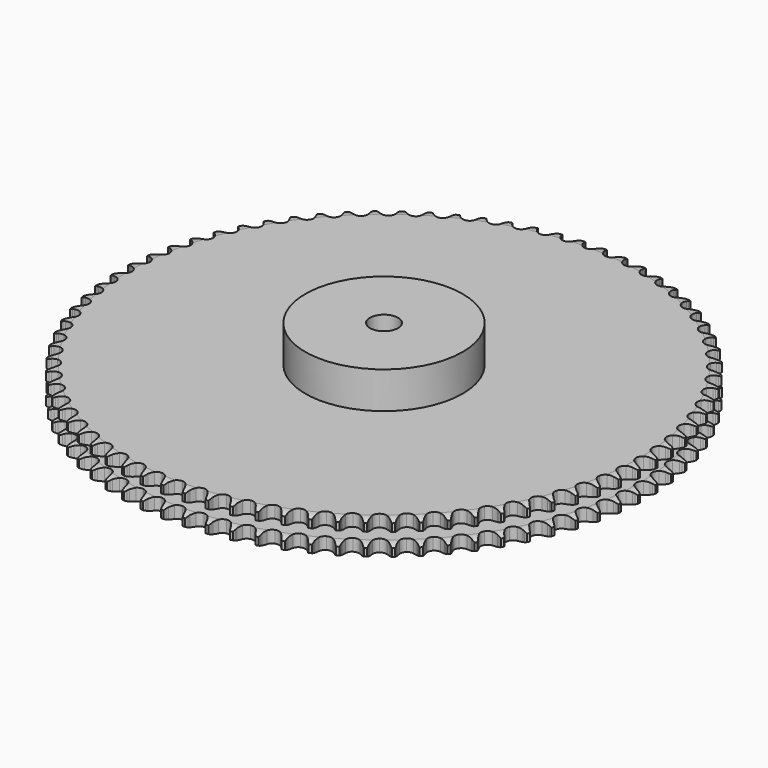
from build123d import *

# Parameters (mm, degrees)
PAD_DEPTH         = 30.3
SKETCH001_R       = 70
PAD001_DEPTH      = 63
SKETCH002_R       = 12.5
POCKET_DEPTH      = 0.001
POCKET_DEPTH_BACK = 63.001


with BuildPart() as part:
    # Sprocket → Pad (new body)
    with BuildSketch(Plane.XY):
        with BuildLine():
            ThreePointArc((-9.776845, 236.382307), (-8.548277, 234.737815), (-7.693596, 232.871467))
            Line((-7.693596, 232.871467), (-7.109925, 231.129719))
            ThreePointArc((-7.109925, 231.129719), (-6.189177, 228.943845), (-4.950801, 226.920914))
            ThreePointArc((-4.950801, 226.920914), (-2.780815, 225.057204), (0, 224.386887))
            ThreePointArc((0, 224.386887), (2.780815, 225.057204), (4.950801, 226.920914))
            ThreePointArc((4.950801, 226.920914), (6.189177, 228.943845), (7.109925, 231.129719))
            Line((7.109925, 231.129719), (7.693596, 232.871467))
            ThreePointArc((7.693596, 232.871467), (8.548277, 234.737815), (9.776845, 236.382307))
            ThreePointArc((9.776845, 236.382307), (10.865415, 234.641977), (11.563055, 232.711425))
            Line((11.563055, 232.711425), (12.0009, 230.927427))
            ThreePointArc((12.0009, 230.927427), (12.737995, 228.672984), (13.805089, 226.554698))
            ThreePointArc((13.805089, 226.554698), (15.81376, 224.518157), (18.529722, 223.620492))
            ThreePointArc((18.529722, 223.620492), (21.356394, 224.058881), (23.672872, 225.73703))
            Line((23.672872, 225.73703), (26.172182, 229.753161))
            ThreePointArc((26.172182, 229.753161), (26.510327, 230.607541), (26.897691, 231.440761))
            ThreePointArc((26.897691, 231.440761), (27.903576, 233.230155), (29.263748, 234.767576))
            ThreePointArc((29.263748, 234.767576), (30.204885, 232.943297), (30.740719, 230.961728))
            Line((30.740719, 230.961728), (31.029746, 229.147666))
            ThreePointArc((31.029746, 229.147666), (31.578153, 226.840054), (32.466676, 224.640883))
            ThreePointArc((32.466676, 224.640883), (34.30031, 222.445424), (36.932868, 221.326542))
            ThreePointArc((36.932868, 221.326542), (39.786086, 221.53001), (42.233234, 223.011133))
            Line((42.233234, 223.011133), (45.055656, 226.807156))
            ThreePointArc((45.055656, 226.807156), (45.463201, 227.630694), (45.918049, 228.42908))
            ThreePointArc((45.918049, 228.42908), (47.068264, 230.129297), (48.55075, 231.549145))
            ThreePointArc((48.55075, 231.549145), (49.338025, 229.653378), (49.708392, 227.634328))
            Line((49.708392, 227.634328), (49.846628, 225.802595))
            ThreePointArc((49.846628, 225.802595), (50.202601, 223.457577), (50.906483, 221.192544))
            ThreePointArc((50.906483, 221.192544), (52.552555, 218.853163), (55.083724, 217.520708))
            ThreePointArc((55.083724, 217.520708), (57.944, 217.487863), (60.505099, 218.761844))
            Line((60.505099, 218.761844), (63.631355, 222.311828))
            ThreePointArc((63.631355, 222.311828), (64.105514, 223.098898), (64.624739, 223.856996))
            ThreePointArc((64.624739, 223.856996), (65.911429, 225.456422), (67.506101, 226.748998))
            ThreePointArc((67.506101, 226.748998), (68.134136, 224.794693), (68.336506, 222.751955))
            Line((68.336506, 222.751955), (68.323007, 220.915062))
            ThreePointArc((68.323007, 220.915062), (68.484114, 218.548658), (68.998547, 216.233235))
            ThreePointArc((68.998547, 216.233235), (70.445812, 213.765913), (72.858303, 212.228986))
            ThreePointArc((72.858303, 212.228986), (75.706097, 211.960054), (78.363654, 213.01819))
            Line((78.363654, 213.01819), (81.772387, 216.297885))
            ThreePointArc((81.772387, 216.297885), (82.309923, 217.043111), (82.889977, 217.755742))
            ThreePointArc((82.889977, 217.755742), (84.304352, 219.243451), (86.000318, 220.399925))
            ThreePointArc((86.000318, 220.399925), (86.464822, 218.400433), (86.497813, 216.34796))
            Line((86.497813, 216.34796), (86.332671, 214.518456))
            ThreePointArc((86.332671, 214.518456), (86.297811, 212.14683), (86.619281, 209.796834))
            ThreePointArc((86.619281, 209.796834), (87.857853, 207.218425), (90.135186, 205.487526))
            ThreePointArc((90.135186, 205.487526), (92.951045, 204.984343), (95.686905, 205.819406))
            Line((95.686905, 205.819406), (99.354831, 208.806407))
            ThreePointArc((99.354831, 208.806407), (99.95207, 209.504699), (100.588993, 210.166996))
            ThreePointArc((100.588993, 210.166996), (102.12139, 211.532826), (103.907065, 212.545298))
            ThreePointArc((103.907065, 212.545298), (104.204866, 210.514277), (104.068252, 208.46609))
            Line((104.068252, 208.46609), (103.752595, 206.656472))
            ThreePointArc((103.752595, 206.656472), (103.522007, 204.295825), (103.648317, 201.927308))
            ThreePointArc((103.648317, 201.927308), (104.669736, 199.255425), (106.796354, 197.342377))
            ThreePointArc((106.796354, 197.342377), (109.561043, 196.608382), (112.356517, 197.214666))
            Line((112.356517, 197.214666), (116.25858, 199.888571))
            ThreePointArc((116.25858, 199.888571), (116.911444, 200.535158), (117.600883, 201.142596))
            ThreePointArc((117.600883, 201.142596), (119.240836, 202.377216), (121.104021, 203.23877))
            ThreePointArc((121.104021, 203.23877), (121.233084, 201.190094), (120.9278, 199.160184))
            Line((120.9278, 199.160184), (120.463783, 197.382814))
            ThreePointArc((120.463783, 197.382814), (120.039042, 195.049271), (119.969331, 192.678414))
            ThreePointArc((119.969331, 192.678414), (120.766618, 189.931308), (122.727994, 187.84918))
            ThreePointArc((122.727994, 187.84918), (125.422628, 186.889385), (128.258621, 187.262751))
            Line((128.258621, 187.262751), (132.368165, 189.605293))
            ThreePointArc((132.368165, 189.605293), (133.072195, 190.195758), (133.80944, 190.744188))
            ThreePointArc((133.80944, 190.744188), (135.545746, 191.839165), (137.473714, 192.543916))
            ThreePointArc((137.473714, 192.543916), (137.433158, 190.491579), (136.961288, 188.493813))
            Line((136.961288, 188.493813), (136.352082, 186.760831))
            ThreePointArc((136.352082, 186.760831), (135.736089, 184.470334), (135.470832, 182.113331))
            ThreePointArc((135.470832, 182.113331), (136.038542, 179.309768), (137.821278, 177.072782))
            ThreePointArc((137.821278, 177.072782), (140.427449, 175.893744), (143.284588, 176.03164))
            Line((143.284588, 176.03164), (147.573542, 178.026818))
            ThreePointArc((147.573542, 178.026818), (148.323927, 178.557128), (149.103944, 179.042804))
            ThreePointArc((149.103944, 179.042804), (150.924742, 179.990658), (152.904322, 180.533792))
            ThreePointArc((152.904322, 180.533792), (152.694424, 178.491813), (152.059191, 176.539837))
            Line((152.059191, 176.539837), (151.308958, 174.863082))
            ThreePointArc((151.308958, 174.863082), (150.505921, 172.631276), (150.04693, 170.304229))
            ThreePointArc((150.04693, 170.304229), (150.381185, 167.463361), (151.973103, 165.086798))
            ThreePointArc((151.973103, 165.086798), (154.473009, 163.696571), (157.331776, 163.598056))
            Line((157.331776, 163.598056), (161.770841, 165.23224))
            ThreePointArc((161.770841, 165.23224), (162.562456, 165.698773), (163.379916, 166.118376))
            ThreePointArc((163.379916, 166.118376), (165.272768, 166.912632), (167.290439, 167.290439))
            ThreePointArc((167.290439, 167.290439), (166.912632, 165.272768), (166.118376, 163.379916))
            Line((166.118376, 163.379916), (165.23224, 161.770841))
            ThreePointArc((165.23224, 161.770841), (164.247645, 159.612973), (163.598056, 157.331776))
            ThreePointArc((163.598056, 157.331776), (163.696571, 154.473009), (165.086798, 151.973103))
            ThreePointArc((165.086798, 151.973103), (167.463361, 150.381185), (170.304229, 150.04693))
            Line((170.304229, 150.04693), (174.863082, 151.308958))
            ThreePointArc((174.863082, 151.308958), (175.690519, 151.708526), (176.539837, 152.059191))
            ThreePointArc((176.539837, 152.059191), (178.491813, 152.694424), (180.533792, 152.904322))
            ThreePointArc((180.533792, 152.904322), (179.990658, 150.924742), (179.042804, 149.103944))
            Line((179.042804, 149.103944), (178.026818, 147.573542))
            ThreePointArc((178.026818, 147.573542), (176.867391, 145.50435), (176.03164, 143.284588))
            ThreePointArc((176.03164, 143.284588), (175.893744, 140.427449), (177.072782, 137.821278))
            ThreePointArc((177.072782, 137.821278), (179.309768, 136.038542), (182.113331, 135.470832))
            Line((182.113331, 135.470832), (186.760831, 136.352082))
            ThreePointArc((186.760831, 136.352082), (187.618438, 136.681956), (188.493813, 136.961288))
            ThreePointArc((188.493813, 136.961288), (190.491579, 137.433158), (192.543916, 137.473714))
            ThreePointArc((192.543916, 137.473714), (191.839165, 135.545746), (190.744188, 133.80944))
            Line((190.744188, 133.80944), (189.605293, 132.368165))
            ThreePointArc((189.605293, 132.368165), (188.278953, 130.401786), (187.262751, 128.258621))
            ThreePointArc((187.262751, 128.258621), (186.889385, 125.422628), (187.84918, 122.727994))
            ThreePointArc((187.84918, 122.727994), (189.931308, 120.766618), (192.678414, 119.969331))
            Line((192.678414, 119.969331), (197.382814, 120.463783))
            ThreePointArc((197.382814, 120.463783), (198.264732, 120.72171), (199.160184, 120.9278))
            ThreePointArc((199.160184, 120.9278), (201.190094, 121.233084), (203.23877, 121.104021))
            ThreePointArc((203.23877, 121.104021), (202.377216, 119.240836), (201.142596, 117.600883))
            Line((201.142596, 117.600883), (199.888571, 116.25858))
            ThreePointArc((199.888571, 116.25858), (198.404379, 114.408445), (197.214666, 112.356517))
            ThreePointArc((197.214666, 112.356517), (196.608382, 109.561043), (197.342377, 106.796354))
            ThreePointArc((197.342377, 106.796354), (199.255425, 104.669736), (201.927308, 103.648317))
            Line((201.927308, 103.648317), (206.656472, 103.752595))
            ThreePointArc((206.656472, 103.752595), (207.556677, 103.936813), (208.46609, 104.068252))
            ThreePointArc((208.46609, 104.068252), (210.514277, 104.204866), (212.545298, 103.907065))
            ThreePointArc((212.545298, 103.907065), (211.532826, 102.12139), (210.166996, 100.588993))
            Line((210.166996, 100.588993), (208.806407, 99.354831))
            ThreePointArc((208.806407, 99.354831), (207.174502, 97.633578), (205.819406, 95.686905))
            ThreePointArc((205.819406, 95.686905), (204.984343, 92.951045), (205.487526, 90.135186))
            ThreePointArc((205.487526, 90.135186), (207.218425, 87.857853), (209.796834, 86.619281))
            Line((209.796834, 86.619281), (214.518456, 86.332671))
            ThreePointArc((214.518456, 86.332671), (215.4308, 86.441921), (216.34796, 86.497813))
            ThreePointArc((216.34796, 86.497813), (218.400433, 86.464822), (220.399925, 86.000318))
            ThreePointArc((220.399925, 86.000318), (219.243451, 84.304352), (217.755742, 82.889977))
            Line((217.755742, 82.889977), (216.297885, 81.772387))
            ThreePointArc((216.297885, 81.772387), (214.529413, 80.191775), (213.01819, 78.363654))
            ThreePointArc((213.01819, 78.363654), (211.960054, 75.706097), (212.228986, 72.858303))
            ThreePointArc((212.228986, 72.858303), (213.765913, 70.445812), (216.233235, 68.998547))
            Line((216.233235, 68.998547), (220.915062, 68.323007))
            ThreePointArc((220.915062, 68.323007), (221.833312, 68.356544), (222.751955, 68.336506))
            ThreePointArc((222.751955, 68.336506), (224.794693, 68.134136), (226.748998, 67.506101))
            ThreePointArc((226.748998, 67.506101), (225.456422, 65.911429), (223.856996, 64.624739))
            Line((223.856996, 64.624739), (222.311828, 63.631355))
            ThreePointArc((222.311828, 63.631355), (220.418871, 62.202181), (218.761844, 60.505099))
            ThreePointArc((218.761844, 60.505099), (217.487863, 57.944), (217.520708, 55.083724))
            ThreePointArc((217.520708, 55.083724), (218.853163, 52.552555), (221.192544, 50.906483))
            Line((221.192544, 50.906483), (225.802595, 49.846628))
            ThreePointArc((225.802595, 49.846628), (226.720477, 49.804222), (227.634328, 49.708392))
            ThreePointArc((227.634328, 49.708392), (229.653378, 49.338025), (231.549145, 48.55075))
            ThreePointArc((231.549145, 48.55075), (230.129297, 47.068264), (228.42908, 45.918049))
            Line((228.42908, 45.918049), (226.807156, 45.055656))
            ThreePointArc((226.807156, 45.055656), (224.802644, 43.787683), (223.011133, 42.233234))
            ThreePointArc((223.011133, 42.233234), (221.53001, 39.786086), (221.326542, 36.932868))
            ThreePointArc((221.326542, 36.932868), (222.445424, 34.30031), (224.640883, 32.466676))
            Line((224.640883, 32.466676), (229.147666, 31.029746))
            ThreePointArc((229.147666, 31.029746), (230.058912, 30.911687), (230.961728, 30.740719))
            ThreePointArc((230.961728, 30.740719), (232.943297, 30.204885), (234.767576, 29.263748))
            ThreePointArc((234.767576, 29.263748), (233.230155, 27.903576), (231.440761, 26.897691))
            Line((231.440761, 26.897691), (229.753161, 26.172182))
            ThreePointArc((229.753161, 26.172182), (227.650787, 25.074071), (225.73703, 23.672872))
            ThreePointArc((225.73703, 23.672872), (224.058881, 21.356394), (223.620492, 18.529722))
            ThreePointArc((223.620492, 18.529722), (224.518157, 15.81376), (226.554698, 13.805089))
            Line((226.554698, 13.805089), (230.927427, 12.0009))
            ThreePointArc((230.927427, 12.0009), (231.825811, 11.807993), (232.711425, 11.563055))
            ThreePointArc((232.711425, 11.563055), (234.641977, 10.865415), (236.382307, 9.776845))
            ThreePointArc((236.382307, 9.776845), (234.737815, 8.548277), (232.871467, 7.693596))
            Line((232.871467, 7.693596), (231.129719, 7.109925))
            ThreePointArc((231.129719, 7.109925), (228.943845, 6.189177), (226.920914, 4.950801))
            ThreePointArc((226.920914, 4.950801), (225.057204, 2.780815), (224.386887, 0))
            ThreePointArc((224.386887, 0), (225.057204, -2.780815), (226.920914, -4.950801))
            Line((226.920914, -4.950801), (231.129719, -7.109925))
            ThreePointArc((231.129719, -7.109925), (232.009105, -7.376361), (232.871467, -7.693596))
            ThreePointArc((232.871467, -7.693596), (234.737815, -8.548277), (236.382307, -9.776845))
            ThreePointArc((236.382307, -9.776845), (234.641977, -10.865415), (232.711425, -11.563055))
            Line((232.711425, -11.563055), (230.927427, -12.0009))
            ThreePointArc((230.927427, -12.0009), (228.672984, -12.737995), (226.554698, -13.805089))
            ThreePointArc((226.554698, -13.805089), (224.518157, -15.81376), (223.620492, -18.529722))
            ThreePointArc((223.620492, -18.529722), (224.058881, -21.356394), (225.73703, -23.672872))
            Line((225.73703, -23.672872), (229.753161, -26.172182))
            ThreePointArc((229.753161, -26.172182), (230.607541, -26.510327), (231.440761, -26.897691))
            ThreePointArc((231.440761, -26.897691), (233.230155, -27.903576), (234.767576, -29.263748))
            ThreePointArc((234.767576, -29.263748), (232.943297, -30.204885), (230.961728, -30.740719))
            Line((230.961728, -30.740719), (229.147666, -31.029746))
            ThreePointArc((229.147666, -31.029746), (226.840054, -31.578153), (224.640883, -32.466676))
            ThreePointArc((224.640883, -32.466676), (222.445424, -34.30031), (221.326542, -36.932868))
            ThreePointArc((221.326542, -36.932868), (221.53001, -39.786086), (223.011133, -42.233234))
            Line((223.011133, -42.233234), (226.807156, -45.055656))
            ThreePointArc((226.807156, -45.055656), (227.630694, -45.463201), (228.42908, -45.918049))
            ThreePointArc((228.42908, -45.918049), (230.129297, -47.068264), (231.549145, -48.55075))
            ThreePointArc((231.549145, -48.55075), (229.653378, -49.338025), (227.634328, -49.708392))
            Line((227.634328, -49.708392), (225.802595, -49.846628))
            ThreePointArc((225.802595, -49.846628), (223.457577, -50.202601), (221.192544, -50.906483))
            ThreePointArc((221.192544, -50.906483), (218.853163, -52.552555), (217.520708, -55.083724))
            ThreePointArc((217.520708, -55.083724), (217.487863, -57.944), (218.761844, -60.505099))
            Line((218.761844, -60.505099), (222.311828, -63.631355))
            ThreePointArc((222.311828, -63.631355), (223.098898, -64.105514), (223.856996, -64.624739))
            ThreePointArc((223.856996, -64.624739), (225.456422, -65.911429), (226.748998, -67.506101))
            ThreePointArc((226.748998, -67.506101), (224.794693, -68.134136), (222.751955, -68.336506))
            Line((222.751955, -68.336506), (220.915062, -68.323007))
            ThreePointArc((220.915062, -68.323007), (218.548658, -68.484114), (216.233235, -68.998547))
            ThreePointArc((216.233235, -68.998547), (213.765913, -70.445812), (212.228986, -72.858303))
            ThreePointArc((212.228986, -72.858303), (211.960054, -75.706097), (213.01819, -78.363654))
            Line((213.01819, -78.363654), (216.297885, -81.772387))
            ThreePointArc((216.297885, -81.772387), (217.043111, -82.309923), (217.755742, -82.889977))
            ThreePointArc((217.755742, -82.889977), (219.243451, -84.304352), (220.399925, -86.000318))
            ThreePointArc((220.399925, -86.000318), (218.400433, -86.464822), (216.34796, -86.497813))
            Line((216.34796, -86.497813), (214.518456, -86.332671))
            ThreePointArc((214.518456, -86.332671), (212.14683, -86.297811), (209.796834, -86.619281))
            ThreePointArc((209.796834, -86.619281), (207.218425, -87.857853), (205.487526, -90.135186))
            ThreePointArc((205.487526, -90.135186), (204.984343, -92.951045), (205.819406, -95.686905))
            Line((205.819406, -95.686905), (208.806407, -99.354831))
            ThreePointArc((208.806407, -99.354831), (209.504699, -99.95207), (210.166996, -100.588993))
            ThreePointArc((210.166996, -100.588993), (211.532826, -102.12139), (212.545298, -103.907065))
            ThreePointArc((212.545298, -103.907065), (210.514277, -104.204866), (208.46609, -104.068252))
            Line((208.46609, -104.068252), (206.656472, -103.752595))
            ThreePointArc((206.656472, -103.752595), (204.295825, -103.522007), (201.927308, -103.648317))
            ThreePointArc((201.927308, -103.648317), (199.255425, -104.669736), (197.342377, -106.796354))
            ThreePointArc((197.342377, -106.796354), (196.608382, -109.561043), (197.214666, -112.356517))
            Line((197.214666, -112.356517), (199.888571, -116.25858))
            ThreePointArc((199.888571, -116.25858), (200.535158, -116.911444), (201.142596, -117.600883))
            ThreePointArc((201.142596, -117.600883), (202.377216, -119.240836), (203.23877, -121.104021))
            ThreePointArc((203.23877, -121.104021), (201.190094, -121.233084), (199.160184, -120.9278))
            Line((199.160184, -120.9278), (197.382814, -120.463783))
            ThreePointArc((197.382814, -120.463783), (195.049271, -120.039042), (192.678414, -119.969331))
            ThreePointArc((192.678414, -119.969331), (189.931308, -120.766618), (187.84918, -122.727994))
            ThreePointArc((187.84918, -122.727994), (186.889385, -125.422628), (187.262751, -128.258621))
            Line((187.262751, -128.258621), (189.605293, -132.368165))
            ThreePointArc((189.605293, -132.368165), (190.195758, -133.072195), (190.744188, -133.80944))
            ThreePointArc((190.744188, -133.80944), (191.839165, -135.545746), (192.543916, -137.473714))
            ThreePointArc((192.543916, -137.473714), (190.491579, -137.433158), (188.493813, -136.961288))
            Line((188.493813, -136.961288), (186.760831, -136.352082))
            ThreePointArc((186.760831, -136.352082), (184.470334, -135.736089), (182.113331, -135.470832))
            ThreePointArc((182.113331, -135.470832), (179.309768, -136.038542), (177.072782, -137.821278))
            ThreePointArc((177.072782, -137.821278), (175.893744, -140.427449), (176.03164, -143.284588))
            Line((176.03164, -143.284588), (178.026818, -147.573542))
            ThreePointArc((178.026818, -147.573542), (178.557128, -148.323927), (179.042804, -149.103944))
            ThreePointArc((179.042804, -149.103944), (179.990658, -150.924742), (180.533792, -152.904322))
            ThreePointArc((180.533792, -152.904322), (178.491813, -152.694424), (176.539837, -152.059191))
            Line((176.539837, -152.059191), (174.863082, -151.308958))
            ThreePointArc((174.863082, -151.308958), (172.631276, -150.505921), (170.304229, -150.04693))
            ThreePointArc((170.304229, -150.04693), (167.463361, -150.381185), (165.086798, -151.973103))
            ThreePointArc((165.086798, -151.973103), (163.696571, -154.473009), (163.598056, -157.331776))
            Line((163.598056, -157.331776), (165.23224, -161.770841))
            ThreePointArc((165.23224, -161.770841), (165.698773, -162.562456), (166.118376, -163.379916))
            ThreePointArc((166.118376, -163.379916), (166.912632, -165.272768), (167.290439, -167.290439))
            ThreePointArc((167.290439, -167.290439), (165.272768, -166.912632), (163.379916, -166.118376))
            Line((163.379916, -166.118376), (161.770841, -165.23224))
            ThreePointArc((161.770841, -165.23224), (159.612973, -164.247645), (157.331776, -163.598056))
            ThreePointArc((157.331776, -163.598056), (154.473009, -163.696571), (151.973103, -165.086798))
            ThreePointArc((151.973103, -165.086798), (150.381185, -167.463361), (150.04693, -170.304229))
            Line((150.04693, -170.304229), (151.308958, -174.863082))
            ThreePointArc((151.308958, -174.863082), (151.708526, -175.690519), (152.059191, -176.539837))
            ThreePointArc((152.059191, -176.539837), (152.694424, -178.491813), (152.904322, -180.533792))
            ThreePointArc((152.904322, -180.533792), (150.924742, -179.990658), (149.103944, -179.042804))
            Line((149.103944, -179.042804), (147.573542, -178.026818))
            ThreePointArc((147.573542, -178.026818), (145.50435, -176.867391), (143.284588, -176.03164))
            ThreePointArc((143.284588, -176.03164), (140.427449, -175.893744), (137.821278, -177.072782))
            ThreePointArc((137.821278, -177.072782), (136.038542, -179.309768), (135.470832, -182.113331))
            Line((135.470832, -182.113331), (136.352082, -186.760831))
            ThreePointArc((136.352082, -186.760831), (136.681956, -187.618438), (136.961288, -188.493813))
            ThreePointArc((136.961288, -188.493813), (137.433158, -190.491579), (137.473714, -192.543916))
            ThreePointArc((137.473714, -192.543916), (135.545746, -191.839165), (133.80944, -190.744188))
            Line((133.80944, -190.744188), (132.368165, -189.605293))
            ThreePointArc((132.368165, -189.605293), (130.401786, -188.278953), (128.258621, -187.262751))
            ThreePointArc((128.258621, -187.262751), (125.422628, -186.889385), (122.727994, -187.84918))
            ThreePointArc((122.727994, -187.84918), (120.766618, -189.931308), (119.969331, -192.678414))
            Line((119.969331, -192.678414), (120.463783, -197.382814))
            ThreePointArc((120.463783, -197.382814), (120.72171, -198.264732), (120.9278, -199.160184))
            ThreePointArc((120.9278, -199.160184), (121.233084, -201.190094), (121.104021, -203.23877))
            ThreePointArc((121.104021, -203.23877), (119.240836, -202.377216), (117.600883, -201.142596))
            Line((117.600883, -201.142596), (116.25858, -199.888571))
            ThreePointArc((116.25858, -199.888571), (114.408445, -198.404379), (112.356517, -197.214666))
            ThreePointArc((112.356517, -197.214666), (109.561043, -196.608382), (106.796354, -197.342377))
            ThreePointArc((106.796354, -197.342377), (104.669736, -199.255425), (103.648317, -201.927308))
            Line((103.648317, -201.927308), (103.752595, -206.656472))
            ThreePointArc((103.752595, -206.656472), (103.936813, -207.556677), (104.068252, -208.46609))
            ThreePointArc((104.068252, -208.46609), (104.204866, -210.514277), (103.907065, -212.545298))
            ThreePointArc((103.907065, -212.545298), (102.12139, -211.532826), (100.588993, -210.166996))
            Line((100.588993, -210.166996), (99.354831, -208.806407))
            ThreePointArc((99.354831, -208.806407), (97.633578, -207.174502), (95.686905, -205.819406))
            ThreePointArc((95.686905, -205.819406), (92.951045, -204.984343), (90.135186, -205.487526))
            ThreePointArc((90.135186, -205.487526), (87.857853, -207.218425), (86.619281, -209.796834))
            Line((86.619281, -209.796834), (86.332671, -214.518456))
            ThreePointArc((86.332671, -214.518456), (86.441921, -215.4308), (86.497813, -216.34796))
            ThreePointArc((86.497813, -216.34796), (86.464822, -218.400433), (86.000318, -220.399925))
            ThreePointArc((86.000318, -220.399925), (84.304352, -219.243451), (82.889977, -217.755742))
            Line((82.889977, -217.755742), (81.772387, -216.297885))
            ThreePointArc((81.772387, -216.297885), (80.191775, -214.529413), (78.363654, -213.01819))
            ThreePointArc((78.363654, -213.01819), (75.706097, -211.960054), (72.858303, -212.228986))
            ThreePointArc((72.858303, -212.228986), (70.445812, -213.765913), (68.998547, -216.233235))
            Line((68.998547, -216.233235), (68.323007, -220.915062))
            ThreePointArc((68.323007, -220.915062), (68.356544, -221.833312), (68.336506, -222.751955))
            ThreePointArc((68.336506, -222.751955), (68.134136, -224.794693), (67.506101, -226.748998))
            ThreePointArc((67.506101, -226.748998), (65.911429, -225.456422), (64.624739, -223.856996))
            Line((64.624739, -223.856996), (63.631355, -222.311828))
            ThreePointArc((63.631355, -222.311828), (62.202181, -220.418871), (60.505099, -218.761844))
            ThreePointArc((60.505099, -218.761844), (57.944, -217.487863), (55.083724, -217.520708))
            ThreePointArc((55.083724, -217.520708), (52.552555, -218.853163), (50.906483, -221.192544))
            Line((50.906483, -221.192544), (49.846628, -225.802595))
            ThreePointArc((49.846628, -225.802595), (49.804222, -226.720477), (49.708392, -227.634328))
            ThreePointArc((49.708392, -227.634328), (49.338025, -229.653378), (48.55075, -231.549145))
            ThreePointArc((48.55075, -231.549145), (47.068264, -230.129297), (45.918049, -228.42908))
            Line((45.918049, -228.42908), (45.055656, -226.807156))
            ThreePointArc((45.055656, -226.807156), (43.787683, -224.802644), (42.233234, -223.011133))
            ThreePointArc((42.233234, -223.011133), (39.786086, -221.53001), (36.932868, -221.326542))
            ThreePointArc((36.932868, -221.326542), (34.30031, -222.445424), (32.466676, -224.640883))
            Line((32.466676, -224.640883), (31.029746, -229.147666))
            ThreePointArc((31.029746, -229.147666), (30.911687, -230.058912), (30.740719, -230.961728))
            ThreePointArc((30.740719, -230.961728), (30.204885, -232.943297), (29.263748, -234.767576))
            ThreePointArc((29.263748, -234.767576), (27.903576, -233.230155), (26.897691, -231.440761))
            Line((26.897691, -231.440761), (26.172182, -229.753161))
            ThreePointArc((26.172182, -229.753161), (25.074071, -227.650787), (23.672872, -225.73703))
            ThreePointArc((23.672872, -225.73703), (21.356394, -224.058881), (18.529722, -223.620492))
            ThreePointArc((18.529722, -223.620492), (15.81376, -224.518157), (13.805089, -226.554698))
            Line((13.805089, -226.554698), (12.0009, -230.927427))
            ThreePointArc((12.0009, -230.927427), (11.807993, -231.825811), (11.563055, -232.711425))
            ThreePointArc((11.563055, -232.711425), (10.865415, -234.641977), (9.776845, -236.382307))
            ThreePointArc((9.776845, -236.382307), (8.548277, -234.737815), (7.693596, -232.871467))
            Line((7.693596, -232.871467), (7.109925, -231.129719))
            ThreePointArc((7.109925, -231.129719), (6.189177, -228.943845), (4.950801, -226.920914))
            ThreePointArc((4.950801, -226.920914), (2.780815, -225.057204), (0, -224.386887))
            ThreePointArc((0, -224.386887), (-2.780815, -225.057204), (-4.950801, -226.920914))
            Line((-4.950801, -226.920914), (-7.109925, -231.129719))
            ThreePointArc((-7.109925, -231.129719), (-7.376361, -232.009105), (-7.693596, -232.871467))
            ThreePointArc((-7.693596, -232.871467), (-8.548277, -234.737815), (-9.776845, -236.382307))
            ThreePointArc((-9.776845, -236.382307), (-10.865415, -234.641977), (-11.563055, -232.711425))
            Line((-11.563055, -232.711425), (-12.0009, -230.927427))
            ThreePointArc((-12.0009, -230.927427), (-12.737995, -228.672984), (-13.805089, -226.554698))
            ThreePointArc((-13.805089, -226.554698), (-15.81376, -224.518157), (-18.529722, -223.620492))
            ThreePointArc((-18.529722, -223.620492), (-21.356394, -224.058881), (-23.672872, -225.73703))
            Line((-23.672872, -225.73703), (-26.172182, -229.753161))
            ThreePointArc((-26.172182, -229.753161), (-26.510327, -230.607541), (-26.897691, -231.440761))
            ThreePointArc((-26.897691, -231.440761), (-27.903576, -233.230155), (-29.263748, -234.767576))
            ThreePointArc((-29.263748, -234.767576), (-30.204885, -232.943297), (-30.740719, -230.961728))
            Line((-30.740719, -230.961728), (-31.029746, -229.147666))
            ThreePointArc((-31.029746, -229.147666), (-31.578153, -226.840054), (-32.466676, -224.640883))
            ThreePointArc((-32.466676, -224.640883), (-34.30031, -222.445424), (-36.932868, -221.326542))
            ThreePointArc((-36.932868, -221.326542), (-39.786086, -221.53001), (-42.233234, -223.011133))
            Line((-42.233234, -223.011133), (-45.055656, -226.807156))
            ThreePointArc((-45.055656, -226.807156), (-45.463201, -227.630694), (-45.918049, -228.42908))
            ThreePointArc((-45.918049, -228.42908), (-47.068264, -230.129297), (-48.55075, -231.549145))
            ThreePointArc((-48.55075, -231.549145), (-49.338025, -229.653378), (-49.708392, -227.634328))
            Line((-49.708392, -227.634328), (-49.846628, -225.802595))
            ThreePointArc((-49.846628, -225.802595), (-50.202601, -223.457577), (-50.906483, -221.192544))
            ThreePointArc((-50.906483, -221.192544), (-52.552555, -218.853163), (-55.083724, -217.520708))
            ThreePointArc((-55.083724, -217.520708), (-57.944, -217.487863), (-60.505099, -218.761844))
            Line((-60.505099, -218.761844), (-63.631355, -222.311828))
            ThreePointArc((-63.631355, -222.311828), (-64.105514, -223.098898), (-64.624739, -223.856996))
            ThreePointArc((-64.624739, -223.856996), (-65.911429, -225.456422), (-67.506101, -226.748998))
            ThreePointArc((-67.506101, -226.748998), (-68.134136, -224.794693), (-68.336506, -222.751955))
            Line((-68.336506, -222.751955), (-68.323007, -220.915062))
            ThreePointArc((-68.323007, -220.915062), (-68.484114, -218.548658), (-68.998547, -216.233235))
            ThreePointArc((-68.998547, -216.233235), (-70.445812, -213.765913), (-72.858303, -212.228986))
            ThreePointArc((-72.858303, -212.228986), (-75.706097, -211.960054), (-78.363654, -213.01819))
            Line((-78.363654, -213.01819), (-81.772387, -216.297885))
            ThreePointArc((-81.772387, -216.297885), (-82.309923, -217.043111), (-82.889977, -217.755742))
            ThreePointArc((-82.889977, -217.755742), (-84.304352, -219.243451), (-86.000318, -220.399925))
            ThreePointArc((-86.000318, -220.399925), (-86.464822, -218.400433), (-86.497813, -216.34796))
            Line((-86.497813, -216.34796), (-86.332671, -214.518456))
            ThreePointArc((-86.332671, -214.518456), (-86.297811, -212.14683), (-86.619281, -209.796834))
            ThreePointArc((-86.619281, -209.796834), (-87.857853, -207.218425), (-90.135186, -205.487526))
            ThreePointArc((-90.135186, -205.487526), (-92.951045, -204.984343), (-95.686905, -205.819406))
            Line((-95.686905, -205.819406), (-99.354831, -208.806407))
            ThreePointArc((-99.354831, -208.806407), (-99.95207, -209.504699), (-100.588993, -210.166996))
            ThreePointArc((-100.588993, -210.166996), (-102.12139, -211.532826), (-103.907065, -212.545298))
            ThreePointArc((-103.907065, -212.545298), (-104.204866, -210.514277), (-104.068252, -208.46609))
            Line((-104.068252, -208.46609), (-103.752595, -206.656472))
            ThreePointArc((-103.752595, -206.656472), (-103.522007, -204.295825), (-103.648317, -201.927308))
            ThreePointArc((-103.648317, -201.927308), (-104.669736, -199.255425), (-106.796354, -197.342377))
            ThreePointArc((-106.796354, -197.342377), (-109.561043, -196.608382), (-112.356517, -197.214666))
            Line((-112.356517, -197.214666), (-116.25858, -199.888571))
            ThreePointArc((-116.25858, -199.888571), (-116.911444, -200.535158), (-117.600883, -201.142596))
            ThreePointArc((-117.600883, -201.142596), (-119.240836, -202.377216), (-121.104021, -203.23877))
            ThreePointArc((-121.104021, -203.23877), (-121.233084, -201.190094), (-120.9278, -199.160184))
            Line((-120.9278, -199.160184), (-120.463783, -197.382814))
            ThreePointArc((-120.463783, -197.382814), (-120.039042, -195.049271), (-119.969331, -192.678414))
            ThreePointArc((-119.969331, -192.678414), (-120.766618, -189.931308), (-122.727994, -187.84918))
            ThreePointArc((-122.727994, -187.84918), (-125.422628, -186.889385), (-128.258621, -187.262751))
            Line((-128.258621, -187.262751), (-132.368165, -189.605293))
            ThreePointArc((-132.368165, -189.605293), (-133.072195, -190.195758), (-133.80944, -190.744188))
            ThreePointArc((-133.80944, -190.744188), (-135.545746, -191.839165), (-137.473714, -192.543916))
            ThreePointArc((-137.473714, -192.543916), (-137.433158, -190.491579), (-136.961288, -188.493813))
            Line((-136.961288, -188.493813), (-136.352082, -186.760831))
            ThreePointArc((-136.352082, -186.760831), (-135.736089, -184.470334), (-135.470832, -182.113331))
            ThreePointArc((-135.470832, -182.113331), (-136.038542, -179.309768), (-137.821278, -177.072782))
            ThreePointArc((-137.821278, -177.072782), (-140.427449, -175.893744), (-143.284588, -176.03164))
            Line((-143.284588, -176.03164), (-147.573542, -178.026818))
            ThreePointArc((-147.573542, -178.026818), (-148.323927, -178.557128), (-149.103944, -179.042804))
            ThreePointArc((-149.103944, -179.042804), (-150.924742, -179.990658), (-152.904322, -180.533792))
            ThreePointArc((-152.904322, -180.533792), (-152.694424, -178.491813), (-152.059191, -176.539837))
            Line((-152.059191, -176.539837), (-151.308958, -174.863082))
            ThreePointArc((-151.308958, -174.863082), (-150.505921, -172.631276), (-150.04693, -170.304229))
            ThreePointArc((-150.04693, -170.304229), (-150.381185, -167.463361), (-151.973103, -165.086798))
            ThreePointArc((-151.973103, -165.086798), (-154.473009, -163.696571), (-157.331776, -163.598056))
            Line((-157.331776, -163.598056), (-161.770841, -165.23224))
            ThreePointArc((-161.770841, -165.23224), (-162.562456, -165.698773), (-163.379916, -166.118376))
            ThreePointArc((-163.379916, -166.118376), (-165.272768, -166.912632), (-167.290439, -167.290439))
            ThreePointArc((-167.290439, -167.290439), (-166.912632, -165.272768), (-166.118376, -163.379916))
            Line((-166.118376, -163.379916), (-165.23224, -161.770841))
            ThreePointArc((-165.23224, -161.770841), (-164.247645, -159.612973), (-163.598056, -157.331776))
            ThreePointArc((-163.598056, -157.331776), (-163.696571, -154.473009), (-165.086798, -151.973103))
            ThreePointArc((-165.086798, -151.973103), (-167.463361, -150.381185), (-170.304229, -150.04693))
            Line((-170.304229, -150.04693), (-174.863082, -151.308958))
            ThreePointArc((-174.863082, -151.308958), (-175.690519, -151.708526), (-176.539837, -152.059191))
            ThreePointArc((-176.539837, -152.059191), (-178.491813, -152.694424), (-180.533792, -152.904322))
            ThreePointArc((-180.533792, -152.904322), (-179.990658, -150.924742), (-179.042804, -149.103944))
            Line((-179.042804, -149.103944), (-178.026818, -147.573542))
            ThreePointArc((-178.026818, -147.573542), (-176.867391, -145.50435), (-176.03164, -143.284588))
            ThreePointArc((-176.03164, -143.284588), (-175.893744, -140.427449), (-177.072782, -137.821278))
            ThreePointArc((-177.072782, -137.821278), (-179.309768, -136.038542), (-182.113331, -135.470832))
            Line((-182.113331, -135.470832), (-186.760831, -136.352082))
            ThreePointArc((-186.760831, -136.352082), (-187.618438, -136.681956), (-188.493813, -136.961288))
            ThreePointArc((-188.493813, -136.961288), (-190.491579, -137.433158), (-192.543916, -137.473714))
            ThreePointArc((-192.543916, -137.473714), (-191.839165, -135.545746), (-190.744188, -133.80944))
            Line((-190.744188, -133.80944), (-189.605293, -132.368165))
            ThreePointArc((-189.605293, -132.368165), (-188.278953, -130.401786), (-187.262751, -128.258621))
            ThreePointArc((-187.262751, -128.258621), (-186.889385, -125.422628), (-187.84918, -122.727994))
            ThreePointArc((-187.84918, -122.727994), (-189.931308, -120.766618), (-192.678414, -119.969331))
            Line((-192.678414, -119.969331), (-197.382814, -120.463783))
            ThreePointArc((-197.382814, -120.463783), (-198.264732, -120.72171), (-199.160184, -120.9278))
            ThreePointArc((-199.160184, -120.9278), (-201.190094, -121.233084), (-203.23877, -121.104021))
            ThreePointArc((-203.23877, -121.104021), (-202.377216, -119.240836), (-201.142596, -117.600883))
            Line((-201.142596, -117.600883), (-199.888571, -116.25858))
            ThreePointArc((-199.888571, -116.25858), (-198.404379, -114.408445), (-197.214666, -112.356517))
            ThreePointArc((-197.214666, -112.356517), (-196.608382, -109.561043), (-197.342377, -106.796354))
            ThreePointArc((-197.342377, -106.796354), (-199.255425, -104.669736), (-201.927308, -103.648317))
            Line((-201.927308, -103.648317), (-206.656472, -103.752595))
            ThreePointArc((-206.656472, -103.752595), (-207.556677, -103.936813), (-208.46609, -104.068252))
            ThreePointArc((-208.46609, -104.068252), (-210.514277, -104.204866), (-212.545298, -103.907065))
            ThreePointArc((-212.545298, -103.907065), (-211.532826, -102.12139), (-210.166996, -100.588993))
            Line((-210.166996, -100.588993), (-208.806407, -99.354831))
            ThreePointArc((-208.806407, -99.354831), (-207.174502, -97.633578), (-205.819406, -95.686905))
            ThreePointArc((-205.819406, -95.686905), (-204.984343, -92.951045), (-205.487526, -90.135186))
            ThreePointArc((-205.487526, -90.135186), (-207.218425, -87.857853), (-209.796834, -86.619281))
            Line((-209.796834, -86.619281), (-214.518456, -86.332671))
            ThreePointArc((-214.518456, -86.332671), (-215.4308, -86.441921), (-216.34796, -86.497813))
            ThreePointArc((-216.34796, -86.497813), (-218.400433, -86.464822), (-220.399925, -86.000318))
            ThreePointArc((-220.399925, -86.000318), (-219.243451, -84.304352), (-217.755742, -82.889977))
            Line((-217.755742, -82.889977), (-216.297885, -81.772387))
            ThreePointArc((-216.297885, -81.772387), (-214.529413, -80.191775), (-213.01819, -78.363654))
            ThreePointArc((-213.01819, -78.363654), (-211.960054, -75.706097), (-212.228986, -72.858303))
            ThreePointArc((-212.228986, -72.858303), (-213.765913, -70.445812), (-216.233235, -68.998547))
            Line((-216.233235, -68.998547), (-220.915062, -68.323007))
            ThreePointArc((-220.915062, -68.323007), (-221.833312, -68.356544), (-222.751955, -68.336506))
            ThreePointArc((-222.751955, -68.336506), (-224.794693, -68.134136), (-226.748998, -67.506101))
            ThreePointArc((-226.748998, -67.506101), (-225.456422, -65.911429), (-223.856996, -64.624739))
            Line((-223.856996, -64.624739), (-222.311828, -63.631355))
            ThreePointArc((-222.311828, -63.631355), (-220.418871, -62.202181), (-218.761844, -60.505099))
            ThreePointArc((-218.761844, -60.505099), (-217.487863, -57.944), (-217.520708, -55.083724))
            ThreePointArc((-217.520708, -55.083724), (-218.853163, -52.552555), (-221.192544, -50.906483))
            Line((-221.192544, -50.906483), (-225.802595, -49.846628))
            ThreePointArc((-225.802595, -49.846628), (-226.720477, -49.804222), (-227.634328, -49.708392))
            ThreePointArc((-227.634328, -49.708392), (-229.653378, -49.338025), (-231.549145, -48.55075))
            ThreePointArc((-231.549145, -48.55075), (-230.129297, -47.068264), (-228.42908, -45.918049))
            Line((-228.42908, -45.918049), (-226.807156, -45.055656))
            ThreePointArc((-226.807156, -45.055656), (-224.802644, -43.787683), (-223.011133, -42.233234))
            ThreePointArc((-223.011133, -42.233234), (-221.53001, -39.786086), (-221.326542, -36.932868))
            ThreePointArc((-221.326542, -36.932868), (-222.445424, -34.30031), (-224.640883, -32.466676))
            Line((-224.640883, -32.466676), (-229.147666, -31.029746))
            ThreePointArc((-229.147666, -31.029746), (-230.058912, -30.911687), (-230.961728, -30.740719))
            ThreePointArc((-230.961728, -30.740719), (-232.943297, -30.204885), (-234.767576, -29.263748))
            ThreePointArc((-234.767576, -29.263748), (-233.230155, -27.903576), (-231.440761, -26.897691))
            Line((-231.440761, -26.897691), (-229.753161, -26.172182))
            ThreePointArc((-229.753161, -26.172182), (-227.650787, -25.074071), (-225.73703, -23.672872))
            ThreePointArc((-225.73703, -23.672872), (-224.058881, -21.356394), (-223.620492, -18.529722))
            ThreePointArc((-223.620492, -18.529722), (-224.518157, -15.81376), (-226.554698, -13.805089))
            Line((-226.554698, -13.805089), (-230.927427, -12.0009))
            ThreePointArc((-230.927427, -12.0009), (-231.825811, -11.807993), (-232.711425, -11.563055))
            ThreePointArc((-232.711425, -11.563055), (-234.641977, -10.865415), (-236.382307, -9.776845))
            ThreePointArc((-236.382307, -9.776845), (-234.737815, -8.548277), (-232.871467, -7.693596))
            Line((-232.871467, -7.693596), (-231.129719, -7.109925))
            ThreePointArc((-231.129719, -7.109925), (-228.943845, -6.189177), (-226.920914, -4.950801))
            ThreePointArc((-226.920914, -4.950801), (-225.057204, -2.780815), (-224.386887, 0))
            ThreePointArc((-224.386887, 0), (-225.057204, 2.780815), (-226.920914, 4.950801))
            Line((-226.920914, 4.950801), (-231.129719, 7.109925))
            ThreePointArc((-231.129719, 7.109925), (-232.009105, 7.376361), (-232.871467, 7.693596))
            ThreePointArc((-232.871467, 7.693596), (-234.737815, 8.548277), (-236.382307, 9.776845))
            ThreePointArc((-236.382307, 9.776845), (-234.641977, 10.865415), (-232.711425, 11.563055))
            Line((-232.711425, 11.563055), (-230.927427, 12.0009))
            ThreePointArc((-230.927427, 12.0009), (-228.672984, 12.737995), (-226.554698, 13.805089))
            ThreePointArc((-226.554698, 13.805089), (-224.518157, 15.81376), (-223.620492, 18.529722))
            ThreePointArc((-223.620492, 18.529722), (-224.058881, 21.356394), (-225.73703, 23.672872))
            Line((-225.73703, 23.672872), (-229.753161, 26.172182))
            ThreePointArc((-229.753161, 26.172182), (-230.607541, 26.510327), (-231.440761, 26.897691))
            ThreePointArc((-231.440761, 26.897691), (-233.230155, 27.903576), (-234.767576, 29.263748))
            ThreePointArc((-234.767576, 29.263748), (-232.943297, 30.204885), (-230.961728, 30.740719))
            Line((-230.961728, 30.740719), (-229.147666, 31.029746))
            ThreePointArc((-229.147666, 31.029746), (-226.840054, 31.578153), (-224.640883, 32.466676))
            ThreePointArc((-224.640883, 32.466676), (-222.445424, 34.30031), (-221.326542, 36.932868))
            ThreePointArc((-221.326542, 36.932868), (-221.53001, 39.786086), (-223.011133, 42.233234))
            Line((-223.011133, 42.233234), (-226.807156, 45.055656))
            ThreePointArc((-226.807156, 45.055656), (-227.630694, 45.463201), (-228.42908, 45.918049))
            ThreePointArc((-228.42908, 45.918049), (-230.129297, 47.068264), (-231.549145, 48.55075))
            ThreePointArc((-231.549145, 48.55075), (-229.653378, 49.338025), (-227.634328, 49.708392))
            Line((-227.634328, 49.708392), (-225.802595, 49.846628))
            ThreePointArc((-225.802595, 49.846628), (-223.457577, 50.202601), (-221.192544, 50.906483))
            ThreePointArc((-221.192544, 50.906483), (-218.853163, 52.552555), (-217.520708, 55.083724))
            ThreePointArc((-217.520708, 55.083724), (-217.487863, 57.944), (-218.761844, 60.505099))
            Line((-218.761844, 60.505099), (-222.311828, 63.631355))
            ThreePointArc((-222.311828, 63.631355), (-223.098898, 64.105514), (-223.856996, 64.624739))
            ThreePointArc((-223.856996, 64.624739), (-225.456422, 65.911429), (-226.748998, 67.506101))
            ThreePointArc((-226.748998, 67.506101), (-224.794693, 68.134136), (-222.751955, 68.336506))
            Line((-222.751955, 68.336506), (-220.915062, 68.323007))
            ThreePointArc((-220.915062, 68.323007), (-218.548658, 68.484114), (-216.233235, 68.998547))
            ThreePointArc((-216.233235, 68.998547), (-213.765913, 70.445812), (-212.228986, 72.858303))
            ThreePointArc((-212.228986, 72.858303), (-211.960054, 75.706097), (-213.01819, 78.363654))
            Line((-213.01819, 78.363654), (-216.297885, 81.772387))
            ThreePointArc((-216.297885, 81.772387), (-217.043111, 82.309923), (-217.755742, 82.889977))
            ThreePointArc((-217.755742, 82.889977), (-219.243451, 84.304352), (-220.399925, 86.000318))
            ThreePointArc((-220.399925, 86.000318), (-218.400433, 86.464822), (-216.34796, 86.497813))
            Line((-216.34796, 86.497813), (-214.518456, 86.332671))
            ThreePointArc((-214.518456, 86.332671), (-212.14683, 86.297811), (-209.796834, 86.619281))
            ThreePointArc((-209.796834, 86.619281), (-207.218425, 87.857853), (-205.487526, 90.135186))
            ThreePointArc((-205.487526, 90.135186), (-204.984343, 92.951045), (-205.819406, 95.686905))
            Line((-205.819406, 95.686905), (-208.806407, 99.354831))
            ThreePointArc((-208.806407, 99.354831), (-209.504699, 99.95207), (-210.166996, 100.588993))
            ThreePointArc((-210.166996, 100.588993), (-211.532826, 102.12139), (-212.545298, 103.907065))
            ThreePointArc((-212.545298, 103.907065), (-210.514277, 104.204866), (-208.46609, 104.068252))
            Line((-208.46609, 104.068252), (-206.656472, 103.752595))
            ThreePointArc((-206.656472, 103.752595), (-204.295825, 103.522007), (-201.927308, 103.648317))
            ThreePointArc((-201.927308, 103.648317), (-199.255425, 104.669736), (-197.342377, 106.796354))
            ThreePointArc((-197.342377, 106.796354), (-196.608382, 109.561043), (-197.214666, 112.356517))
            Line((-197.214666, 112.356517), (-199.888571, 116.25858))
            ThreePointArc((-199.888571, 116.25858), (-200.535158, 116.911444), (-201.142596, 117.600883))
            ThreePointArc((-201.142596, 117.600883), (-202.377216, 119.240836), (-203.23877, 121.104021))
            ThreePointArc((-203.23877, 121.104021), (-201.190094, 121.233084), (-199.160184, 120.9278))
            Line((-199.160184, 120.9278), (-197.382814, 120.463783))
            ThreePointArc((-197.382814, 120.463783), (-195.049271, 120.039042), (-192.678414, 119.969331))
            ThreePointArc((-192.678414, 119.969331), (-189.931308, 120.766618), (-187.84918, 122.727994))
            ThreePointArc((-187.84918, 122.727994), (-186.889385, 125.422628), (-187.262751, 128.258621))
            Line((-187.262751, 128.258621), (-189.605293, 132.368165))
            ThreePointArc((-189.605293, 132.368165), (-190.195758, 133.072195), (-190.744188, 133.80944))
            ThreePointArc((-190.744188, 133.80944), (-191.839165, 135.545746), (-192.543916, 137.473714))
            ThreePointArc((-192.543916, 137.473714), (-190.491579, 137.433158), (-188.493813, 136.961288))
            Line((-188.493813, 136.961288), (-186.760831, 136.352082))
            ThreePointArc((-186.760831, 136.352082), (-184.470334, 135.736089), (-182.113331, 135.470832))
            ThreePointArc((-182.113331, 135.470832), (-179.309768, 136.038542), (-177.072782, 137.821278))
            ThreePointArc((-177.072782, 137.821278), (-175.893744, 140.427449), (-176.03164, 143.284588))
            Line((-176.03164, 143.284588), (-178.026818, 147.573542))
            ThreePointArc((-178.026818, 147.573542), (-178.557128, 148.323927), (-179.042804, 149.103944))
            ThreePointArc((-179.042804, 149.103944), (-179.990658, 150.924742), (-180.533792, 152.904322))
            ThreePointArc((-180.533792, 152.904322), (-178.491813, 152.694424), (-176.539837, 152.059191))
            Line((-176.539837, 152.059191), (-174.863082, 151.308958))
            ThreePointArc((-174.863082, 151.308958), (-172.631276, 150.505921), (-170.304229, 150.04693))
            ThreePointArc((-170.304229, 150.04693), (-167.463361, 150.381185), (-165.086798, 151.973103))
            ThreePointArc((-165.086798, 151.973103), (-163.696571, 154.473009), (-163.598056, 157.331776))
            Line((-163.598056, 157.331776), (-165.23224, 161.770841))
            ThreePointArc((-165.23224, 161.770841), (-165.698773, 162.562456), (-166.118376, 163.379916))
            ThreePointArc((-166.118376, 163.379916), (-166.912632, 165.272768), (-167.290439, 167.290439))
            ThreePointArc((-167.290439, 167.290439), (-165.272768, 166.912632), (-163.379916, 166.118376))
            Line((-163.379916, 166.118376), (-161.770841, 165.23224))
            ThreePointArc((-161.770841, 165.23224), (-159.612973, 164.247645), (-157.331776, 163.598056))
            ThreePointArc((-157.331776, 163.598056), (-154.473009, 163.696571), (-151.973103, 165.086798))
            ThreePointArc((-151.973103, 165.086798), (-150.381185, 167.463361), (-150.04693, 170.304229))
            Line((-150.04693, 170.304229), (-151.308958, 174.863082))
            ThreePointArc((-151.308958, 174.863082), (-151.708526, 175.690519), (-152.059191, 176.539837))
            ThreePointArc((-152.059191, 176.539837), (-152.694424, 178.491813), (-152.904322, 180.533792))
            ThreePointArc((-152.904322, 180.533792), (-150.924742, 179.990658), (-149.103944, 179.042804))
            Line((-149.103944, 179.042804), (-147.573542, 178.026818))
            ThreePointArc((-147.573542, 178.026818), (-145.50435, 176.867391), (-143.284588, 176.03164))
            ThreePointArc((-143.284588, 176.03164), (-140.427449, 175.893744), (-137.821278, 177.072782))
            ThreePointArc((-137.821278, 177.072782), (-136.038542, 179.309768), (-135.470832, 182.113331))
            Line((-135.470832, 182.113331), (-136.352082, 186.760831))
            ThreePointArc((-136.352082, 186.760831), (-136.681956, 187.618438), (-136.961288, 188.493813))
            ThreePointArc((-136.961288, 188.493813), (-137.433158, 190.491579), (-137.473714, 192.543916))
            ThreePointArc((-137.473714, 192.543916), (-135.545746, 191.839165), (-133.80944, 190.744188))
            Line((-133.80944, 190.744188), (-132.368165, 189.605293))
            ThreePointArc((-132.368165, 189.605293), (-130.401786, 188.278953), (-128.258621, 187.262751))
            ThreePointArc((-128.258621, 187.262751), (-125.422628, 186.889385), (-122.727994, 187.84918))
            ThreePointArc((-122.727994, 187.84918), (-120.766618, 189.931308), (-119.969331, 192.678414))
            Line((-119.969331, 192.678414), (-120.463783, 197.382814))
            ThreePointArc((-120.463783, 197.382814), (-120.72171, 198.264732), (-120.9278, 199.160184))
            ThreePointArc((-120.9278, 199.160184), (-121.233084, 201.190094), (-121.104021, 203.23877))
            ThreePointArc((-121.104021, 203.23877), (-119.240836, 202.377216), (-117.600883, 201.142596))
            Line((-117.600883, 201.142596), (-116.25858, 199.888571))
            ThreePointArc((-116.25858, 199.888571), (-114.408445, 198.404379), (-112.356517, 197.214666))
            ThreePointArc((-112.356517, 197.214666), (-109.561043, 196.608382), (-106.796354, 197.342377))
            ThreePointArc((-106.796354, 197.342377), (-104.669736, 199.255425), (-103.648317, 201.927308))
            Line((-103.648317, 201.927308), (-103.752595, 206.656472))
            ThreePointArc((-103.752595, 206.656472), (-103.936813, 207.556677), (-104.068252, 208.46609))
            ThreePointArc((-104.068252, 208.46609), (-104.204866, 210.514277), (-103.907065, 212.545298))
            ThreePointArc((-103.907065, 212.545298), (-102.12139, 211.532826), (-100.588993, 210.166996))
            Line((-100.588993, 210.166996), (-99.354831, 208.806407))
            ThreePointArc((-99.354831, 208.806407), (-97.633578, 207.174502), (-95.686905, 205.819406))
            ThreePointArc((-95.686905, 205.819406), (-92.951045, 204.984343), (-90.135186, 205.487526))
            ThreePointArc((-90.135186, 205.487526), (-87.857853, 207.218425), (-86.619281, 209.796834))
            Line((-86.619281, 209.796834), (-86.332671, 214.518456))
            ThreePointArc((-86.332671, 214.518456), (-86.441921, 215.4308), (-86.497813, 216.34796))
            ThreePointArc((-86.497813, 216.34796), (-86.464822, 218.400433), (-86.000318, 220.399925))
            ThreePointArc((-86.000318, 220.399925), (-84.304352, 219.243451), (-82.889977, 217.755742))
            Line((-82.889977, 217.755742), (-81.772387, 216.297885))
            ThreePointArc((-81.772387, 216.297885), (-80.191775, 214.529413), (-78.363654, 213.01819))
            ThreePointArc((-78.363654, 213.01819), (-75.706097, 211.960054), (-72.858303, 212.228986))
            ThreePointArc((-72.858303, 212.228986), (-70.445812, 213.765913), (-68.998547, 216.233235))
            Line((-68.998547, 216.233235), (-68.323007, 220.915062))
            ThreePointArc((-68.323007, 220.915062), (-68.356544, 221.833312), (-68.336506, 222.751955))
            ThreePointArc((-68.336506, 222.751955), (-68.134136, 224.794693), (-67.506101, 226.748998))
            ThreePointArc((-67.506101, 226.748998), (-65.911429, 225.456422), (-64.624739, 223.856996))
            Line((-64.624739, 223.856996), (-63.631355, 222.311828))
            ThreePointArc((-63.631355, 222.311828), (-62.202181, 220.418871), (-60.505099, 218.761844))
            ThreePointArc((-60.505099, 218.761844), (-57.944, 217.487863), (-55.083724, 217.520708))
            ThreePointArc((-55.083724, 217.520708), (-52.552555, 218.853163), (-50.906483, 221.192544))
            Line((-50.906483, 221.192544), (-49.846628, 225.802595))
            ThreePointArc((-49.846628, 225.802595), (-49.804222, 226.720477), (-49.708392, 227.634328))
            ThreePointArc((-49.708392, 227.634328), (-49.338025, 229.653378), (-48.55075, 231.549145))
            ThreePointArc((-48.55075, 231.549145), (-47.068264, 230.129297), (-45.918049, 228.42908))
            Line((-45.918049, 228.42908), (-45.055656, 226.807156))
            ThreePointArc((-45.055656, 226.807156), (-43.787683, 224.802644), (-42.233234, 223.011133))
            ThreePointArc((-42.233234, 223.011133), (-39.786086, 221.53001), (-36.932868, 221.326542))
            ThreePointArc((-36.932868, 221.326542), (-34.30031, 222.445424), (-32.466676, 224.640883))
            Line((-32.466676, 224.640883), (-31.029746, 229.147666))
            ThreePointArc((-31.029746, 229.147666), (-30.911687, 230.058912), (-30.740719, 230.961728))
            ThreePointArc((-30.740719, 230.961728), (-30.204885, 232.943297), (-29.263748, 234.767576))
            ThreePointArc((-29.263748, 234.767576), (-27.903576, 233.230155), (-26.897691, 231.440761))
            Line((-26.897691, 231.440761), (-26.172182, 229.753161))
            ThreePointArc((-26.172182, 229.753161), (-25.074071, 227.650787), (-23.672872, 225.73703))
            ThreePointArc((-23.672872, 225.73703), (-21.356394, 224.058881), (-18.529722, 223.620492))
            ThreePointArc((-18.529722, 223.620492), (-15.81376, 224.518157), (-13.805089, 226.554698))
            Line((-13.805089, 226.554698), (-12.0009, 230.927427))
            ThreePointArc((-12.0009, 230.927427), (-11.807993, 231.825811), (-11.563055, 232.711425))
            ThreePointArc((-11.563055, 232.711425), (-10.865415, 234.641977), (-9.776845, 236.382307))
        make_face()
    extrude(amount=PAD_DEPTH)

    # Sketch → Groove (revolve, cut)
    with BuildSketch(Plane.XZ):
        with BuildLine():
            ThreePointArc((226.464719, 0), (230.823618, 0.506758), (234.95, 2))
            Line((234.95, 2), (234.95, 8.8))
            ThreePointArc((234.95, 8.8), (230.823618, 10.293242), (226.464719, 10.8))
            Line((70, 10.8), (226.464719, 10.8))
            Line((70, 19.5), (70, 10.8))
            Line((226.464719, 19.5), (70, 19.5))
            ThreePointArc((226.464719, 19.5), (230.823618, 20.006758), (234.95, 21.5))
            Line((234.95, 21.5), (234.95, 28.3))
            ThreePointArc((234.95, 28.3), (230.823618, 29.793242), (226.464719, 30.3))
            Line((226.464719, 30.3), (244.95, 30.3))
            Line((244.95, 30.3), (244.95, 0))
            Line((226.464719, 0), (244.95, 0))
        make_face()
    revolve(axis=Axis((0, 0, 0), (0, 0, 1)), mode=Mode.SUBTRACT)

    # Sketch001 → Pad001 (join)
    with BuildSketch(Plane.XY):
        Circle(SKETCH001_R)
    extrude(amount=PAD001_DEPTH)

    # Sketch002 → Pocket (cut, two sides)
    with BuildSketch(Plane.XY) as pocket_sk:
        Circle(SKETCH002_R)
    extrude(amount=-POCKET_DEPTH, mode=Mode.SUBTRACT)
    extrude(pocket_sk.sketch, amount=POCKET_DEPTH_BACK, mode=Mode.SUBTRACT)


solid = part.part
